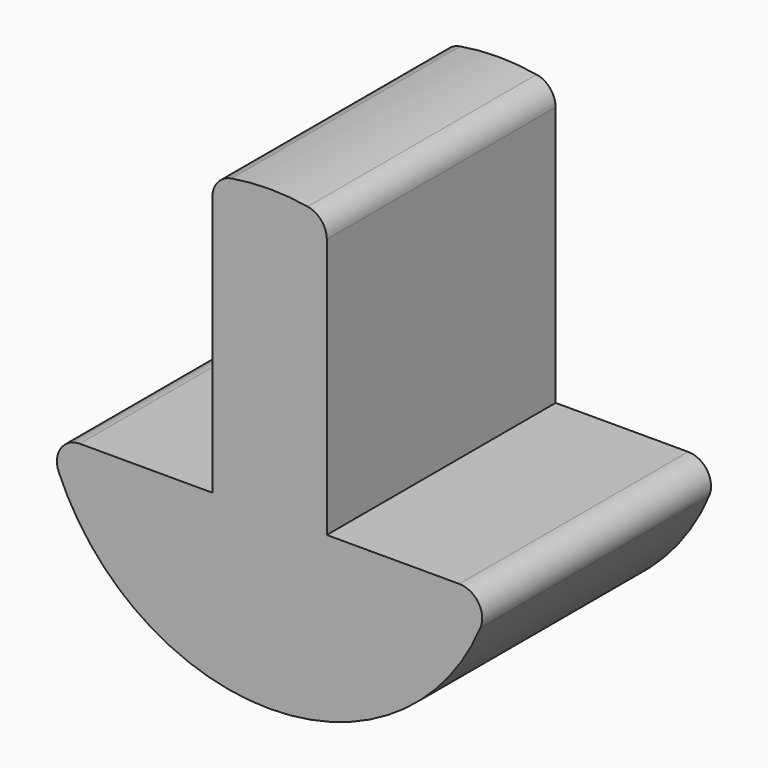
from build123d import *

# Parameters (mm, degrees)
F1_DEPTH = 25


with BuildPart() as f1:
    # F0 (on Front) → F1 (new body)
    with BuildSketch(Plane.XZ):
        with BuildLine():
            ThreePointArc((5, 17.748239), (4.527525, 19.039234), (3.333333, 19.720266))
            ThreePointArc((3.333333, 19.720266), (0, 20), (-3.333333, 19.720266))
            ThreePointArc((-3.333333, 19.720266), (-4.527525, 19.039234), (-5, 17.748239))
            Line((-5, 17.748239), (-5, -5))
            Line((-5, -5), (-16.583124, -5))
            ThreePointArc((-16.583124, -5), (-18.249791, -5.894458), (-18.425693, -7.777778))
            ThreePointArc((-18.425693, -7.777778), (0, -20), (18.425693, -7.777778))
            ThreePointArc((18.425693, -7.777778), (18.249791, -5.894458), (16.583124, -5))
            Line((16.583124, -5), (5, -5))
            Line((5, -5), (5, 17.748239))
        make_face()
    extrude(amount=F1_DEPTH)


solid = f1.part
